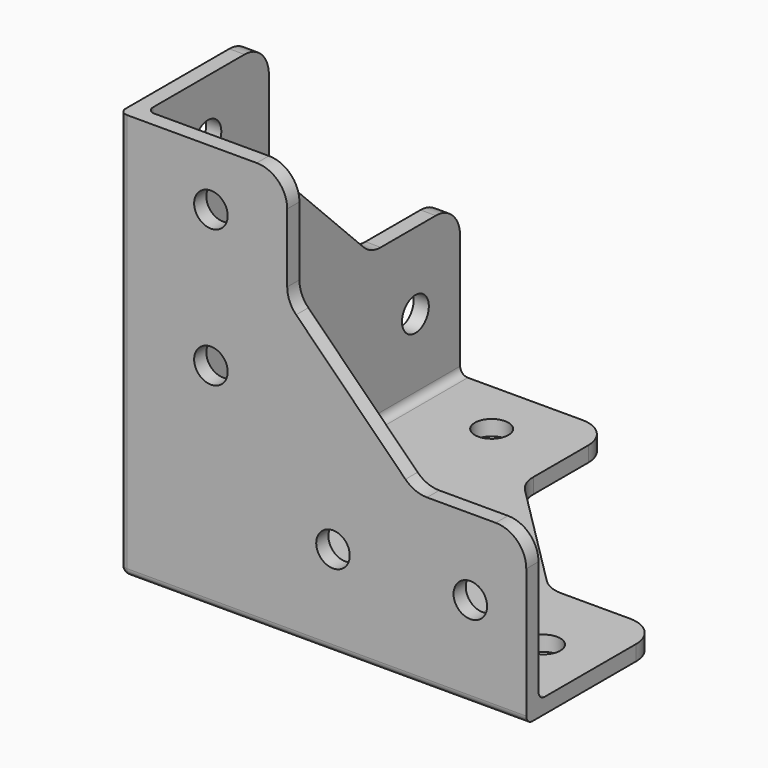
from build123d import *

# Parameters (mm, degrees)
F1_DEPTH = 3
F3_DEPTH = 3
F5_DEPTH = 3
F7_D     = 6.6
F9_D     = 6.6
F11_D    = 6.6
F12_R    = 6
F13_R    = 1.5


with BuildPart() as f1:
    # F0 (on Front) → F1 (new body)
    with BuildSketch(Plane.XZ):
        Polygon((33, 80), (0, 80), (0, 0), (80, 0), (80, 33), (58, 33), (33, 58), align=None)
    extrude(amount=-F1_DEPTH)

    # F2 (on Right) → F3 (join)
    with BuildSketch(Plane.YZ):
        Polygon((0, 80), (0, 0), (80, 0), (80, 33), (58, 33), (33, 58), (33, 80), align=None)
    extrude(amount=F3_DEPTH)

    # F4 (on face) → F5 (join)
    with BuildSketch(Plane(origin=(0, 0, 0), x_dir=(1, 0, 0), z_dir=(0, 0, -1))):
        Polygon((80, 0), (0, 0), (0, -80), (33, -80), (33, -58), (58, -33), (80, -33), align=None)
    extrude(amount=-F5_DEPTH)

    # F7 (through all)
    with Locations(Plane.XZ):
        with Locations((42, 18), (69, 18), (18, 69), (18, 42)):
            Hole(F7_D / 2)

    # F9 (through all)
    with Locations(Plane.YZ.offset(3)):
        with Locations((42, 18), (69, 18), (18, 69), (18, 42)):
            Hole(F9_D / 2)

    # F11 (through all)
    with Locations(Plane(origin=(0, 0, 0), x_dir=(1, 0, 0), z_dir=(0, 0, -1))):
        with Locations((42, -18), (69, -18), (18, -42), (18, -69)):
            Hole(F11_D / 2)

    # F12
    f12_edges = [f1.edges().sort_by_distance(p)[0] for p in [
        (33, 1.5, 80),
        (1.5, 80, 33),
        (80, 1.5, 33),
        (33, 1.5, 58),
        (58, 1.5, 33),
        (58, 33, 1.5),
        (33, 58, 1.5),
        (1.5, 58, 33),
        (1.5, 33, 58),
        (1.5, 33, 80),
        (33, 80, 1.5),
        (80, 33, 1.5),
    ]]
    fillet(f12_edges, radius=F12_R)

    # F13
    f13_edges = [f1.edges().sort_by_distance(p)[0] for p in [
        (41.5, 3, 3),
        (3, 41.5, 3),
        (3, 3, 41.5),
        (40, 0, 0),
        (0, 0, 40),
        (0, 40, 0),
    ]]
    fillet(f13_edges, radius=F13_R)


solid = f1.part
